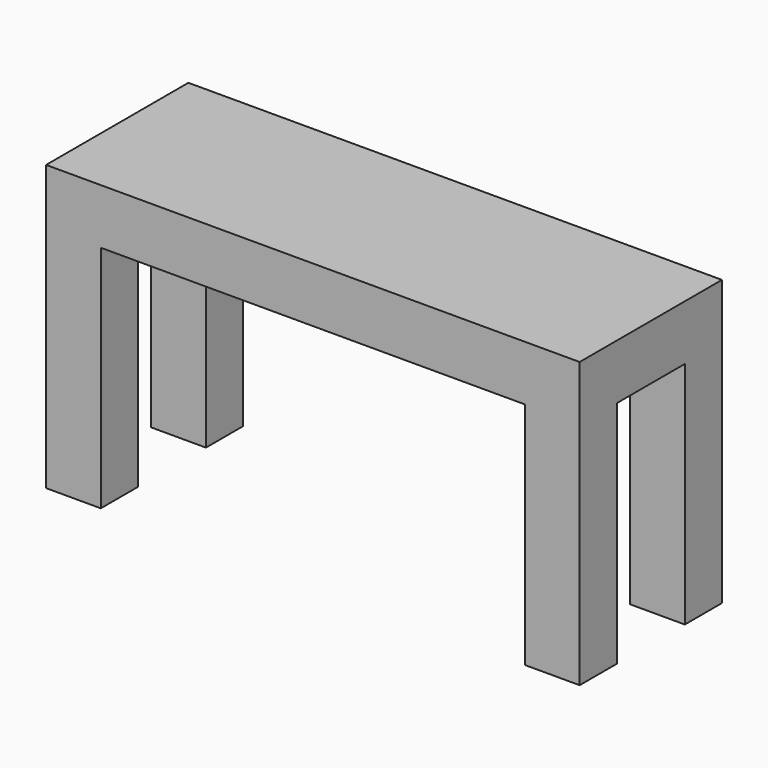
from build123d import *

# Parameters (mm, degrees)
F0_W     = 762
F0_H     = 254
F1_DEPTH = 203.2
F3_DEPTH = 327.66


with BuildPart() as f1:
    # F0 (on Top) → F1 (new body, symmetric)
    with BuildSketch(Plane.XY):
        Rectangle(F0_W, F0_H)
    extrude(amount=F1_DEPTH, both=True)

    # F2 (on face) → F3 (cut)
    with BuildSketch(Plane(origin=(0, 0, -203.2), x_dir=(1, 0, 0), z_dir=(0, 0, -1))):
        Polygon((302.8774559498, 127), (-302.8774559498, 127), (-302.8774559498, 60.744214803), (-381, 60.744214803), (-381, -60.744214803), (-302.8774559498, -60.744214803), (-302.8774559498, -127), (302.8774559498, -127), (302.8774559498, -60.744214803), (381, -60.744214803), (381, 60.744214803), (302.8774559498, 60.744214803), align=None)
    extrude(amount=-F3_DEPTH, mode=Mode.SUBTRACT)


solid = f1.part
